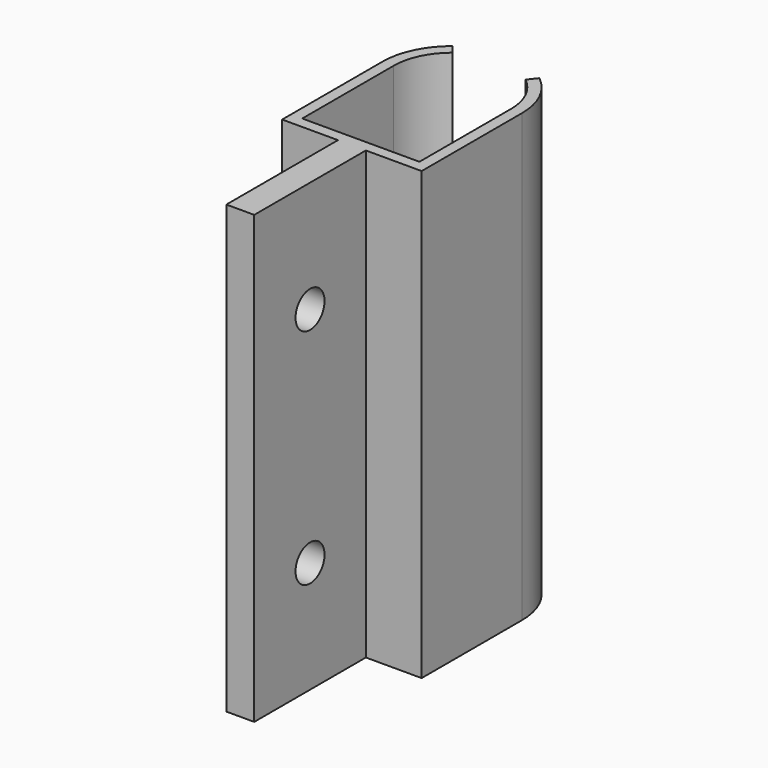
from build123d import *

# Parameters (mm, degrees)
F2_DEPTH      = 80
F1_W          = 5
F1_H          = 25
F3_DEPTH      = 80
F4_R          = 3.25
F5_DEPTH      = 25
F5_DEPTH_BACK = 25


with BuildPart() as f2:
    # F0 (on Top) → F2 (new body)
    with BuildSketch(Plane.XY):
        with BuildLine():
            Line((-12.5, -11.25), (12.5, -11.25))
            Line((12.5, -11.25), (12.5, 11.25))
            ThreePointArc((12.5, 11.25), (11.2575846496, 16.6829354732), (7.777313943, 21.0358769577))
            Line((7.777313943, 21.0358769577), (6.5329437122, 19.4701366445))
            ThreePointArc((6.5329437122, 19.4701366445), (9.4563711057, 15.8136657975), (10.5, 11.25))
            Line((10.5, 11.25), (10.5, -9.25))
            Line((10.5, -9.25), (-10.5, -9.25))
            Line((-10.5, -9.25), (-10.5, 11.25))
            ThreePointArc((-10.5, 11.25), (-9.4563711057, 15.8136657975), (-6.5329437122, 19.4701366445))
            Line((-6.5329437122, 19.4701366445), (-7.777313943, 21.0358769577))
            ThreePointArc((-7.777313943, 21.0358769577), (-11.2575846496, 16.6829354732), (-12.5, 11.25))
            Line((-12.5, 11.25), (-12.5, -11.25))
        make_face()
    extrude(amount=F2_DEPTH)

    # F1 (on Top) → F3 (join)
    with BuildSketch(Plane.XY):
        with Locations((0, -23.75)):
            Rectangle(F1_W, F1_H)
    extrude(amount=F3_DEPTH)

    # F4 (on Right) → F5 (cut, two sides)
    with BuildSketch(Plane.YZ) as f5_sk:
        with Locations((-23.75, 20)):
            Circle(F4_R)
        with Locations((-23.75, 60)):
            Circle(F4_R)
    extrude(amount=-F5_DEPTH, mode=Mode.SUBTRACT)
    extrude(f5_sk.sketch, amount=F5_DEPTH_BACK, mode=Mode.SUBTRACT)


solid = f2.part
